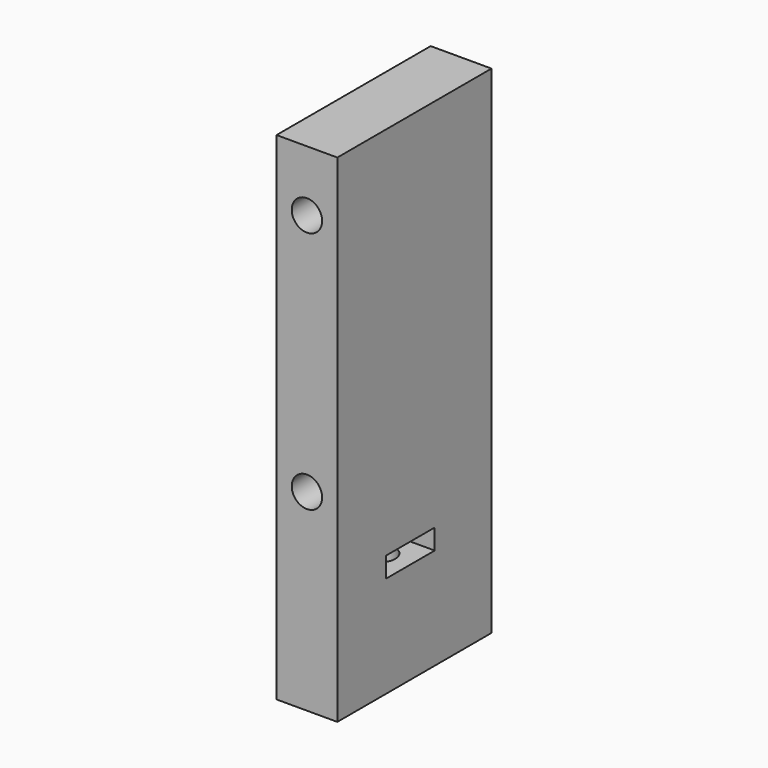
from build123d import *

# Parameters (mm, degrees)
CYLINDER1866_R               = 3
CYLINDER1866_DEPTH           = 3
CYLINDER1865_R               = 3
CYLINDER1865_DEPTH           = 3
CYLINDER1867_R               = 3
CYLINDER1867_DEPTH           = 3
CYLINDER1868_R               = 3
CYLINDER1868_DEPTH           = 3
CYLINDER1854_R               = 1.5
CYLINDER1854_DEPTH           = 50
CYLINDER1855_R               = 1.5
CYLINDER1855_DEPTH           = 50
CYLINDER1856_R               = 1.5
CYLINDER1856_DEPTH           = 50
CYLINDER1853_R               = 1.5
CYLINDER1853_DEPTH           = 50
CYLINDER1851_R               = 1.5
CYLINDER1851_DEPTH           = 50
CYLINDER1851_PLACEMENT_ANGLE = 45
BOX771_W                     = 6
BOX771_H                     = 8
BOX771_DEPTH                 = 2
BOX772_W                     = 49
BOX772_H                     = 19
BOX772_DEPTH                 = 6


with BuildPart() as obj1:
    # Cylinder1866 → Cylinder1866 (new body)
    with BuildSketch(Plane(origin=(-31, 150, 72), x_dir=(1, 0, 0), z_dir=(0, -1, 0))):
        Circle(CYLINDER1866_R)
    extrude(amount=CYLINDER1866_DEPTH)


with BuildPart() as obj2:
    # Cylinder1865 → Cylinder1865 (new body)
    with BuildSketch(Plane(origin=(31, 150, 48), x_dir=(1, 0, 0), z_dir=(0, -1, 0))):
        Circle(CYLINDER1865_R)
    extrude(amount=CYLINDER1865_DEPTH)


with BuildPart() as obj3:
    # Cylinder1867 → Cylinder1867 (new body)
    with BuildSketch(Plane(origin=(31, 150, 72), x_dir=(1, 0, 0), z_dir=(0, -1, 0))):
        Circle(CYLINDER1867_R)
    extrude(amount=CYLINDER1867_DEPTH)


with BuildPart() as compound933:
    # Cylinder1868 → Cylinder1868 (new body)
    with BuildSketch(Plane(origin=(-31, 150, 48), x_dir=(1, 0, 0), z_dir=(0, -1, 0))):
        Circle(CYLINDER1868_R)
    extrude(amount=CYLINDER1868_DEPTH)

    # Compound933: union obj1, obj2, obj3
    add(obj1.part)
    add(obj2.part)
    add(obj3.part)


with BuildPart() as compound933_1:
    # Compound933 placement: moved
    add(compound933.part.moved(Location((0, -9, 0))))


with BuildPart() as obj4:
    # Cylinder1854 → Cylinder1854 (new body)
    with BuildSketch(Plane(origin=(-31, 150, 72), x_dir=(1, 0, 0), z_dir=(0, -1, 0))):
        Circle(CYLINDER1854_R)
    extrude(amount=CYLINDER1854_DEPTH)


with BuildPart() as obj5:
    # Cylinder1855 → Cylinder1855 (new body)
    with BuildSketch(Plane(origin=(31, 150, 48), x_dir=(1, 0, 0), z_dir=(0, -1, 0))):
        Circle(CYLINDER1855_R)
    extrude(amount=CYLINDER1855_DEPTH)


with BuildPart() as obj6:
    # Cylinder1856 → Cylinder1856 (new body)
    with BuildSketch(Plane(origin=(31, 150, 72), x_dir=(1, 0, 0), z_dir=(0, -1, 0))):
        Circle(CYLINDER1856_R)
    extrude(amount=CYLINDER1856_DEPTH)


with BuildPart() as compound930:
    # Cylinder1853 → Cylinder1853 (new body)
    with BuildSketch(Plane(origin=(-31, 150, 48), x_dir=(1, 0, 0), z_dir=(0, -1, 0))):
        Circle(CYLINDER1853_R)
    extrude(amount=CYLINDER1853_DEPTH)

    # Compound930: union obj4, obj5, obj6
    add(obj4.part)
    add(obj5.part)
    add(obj6.part)


with BuildPart() as compound927:
    # Cylinder1851 → Cylinder1851 (new body)
    with BuildSketch(Plane.XY):
        Circle(CYLINDER1851_R)
    extrude(amount=CYLINDER1851_DEPTH)


with BuildPart() as compound927_1:
    # Cylinder1851 placement: moved
    add(compound927.part.moved(Location((-31, 92, 0))).rotate(Axis((-31, 92, 0), (0, 0, 1)), CYLINDER1851_PLACEMENT_ANGLE))


with BuildPart() as compound926:
    # Box771 → Box771 (new body)
    with BuildSketch(Plane(origin=(-27, 89, 39), x_dir=(0, 1, 0), z_dir=(0, 0, 1))):
        with Locations((3, 4)):
            Rectangle(BOX771_W, BOX771_H)
    extrude(amount=BOX771_DEPTH)


with BuildPart() as cut579:
    # Box772 → Box772 (new body)
    with BuildSketch(Plane(origin=(-34, 83, 78), x_dir=(0, 0, -1), z_dir=(1, 0, 0))):
        with Locations((24.5, 9.5)):
            Rectangle(BOX772_W, BOX772_H)
    extrude(amount=BOX772_DEPTH)

    # Cut574: cut Compound926
    add(compound926.part, mode=Mode.SUBTRACT)

    # Cut575: cut Compound927
    add(compound927_1.part, mode=Mode.SUBTRACT)


with BuildPart() as cut579_1:
    # Cut575 placement: moved
    add(cut579.part.moved(Location((0, 39, 0))))

    # Cut578: cut Compound930
    add(compound930.part, mode=Mode.SUBTRACT)

    # Cut579: cut Compound933
    add(compound933_1.part, mode=Mode.SUBTRACT)


solid = cut579_1.part
